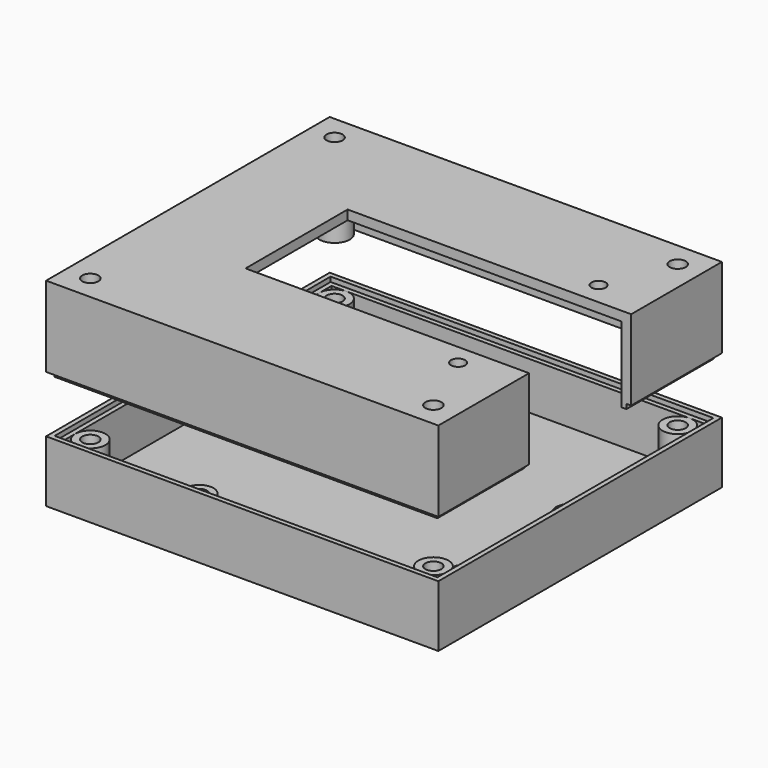
from build123d import *

# Parameters (mm, degrees)
SKETCH_W        = 83
SKETCH_H        = 75
PAD_DEPTH       = 2
SKETCH001_R     = 3
SKETCH001_R_2   = 1.6
PAD001_DEPTH    = 2
SKETCH002_W     = 83
SKETCH002_H     = 75
SKETCH002_W_2   = 79
SKETCH002_H_2   = 71
PAD002_DEPTH    = 10
SKETCH003_W     = 13.5
SKETCH003_H     = 7
POCKET_DEPTH    = 2
SKETCH004_R     = 1.6
POCKET001_DEPTH = 2
PAD003_DEPTH    = 1
SKETCH006_R     = 3.2
PAD004_DEPTH    = 10
SKETCH007_R     = 1.7
HOLE_DEPTH      = 25
SKETCH008_W     = 83
SKETCH008_H     = 75
PAD005_DEPTH    = 2
SKETCH009_W     = 83
SKETCH009_H     = 75
SKETCH009_W_2   = 79
SKETCH009_H_2   = 71
PAD006_DEPTH    = 15
SKETCH010_W     = 13.5
SKETCH010_H     = 5
POCKET002_DEPTH = 2
SKETCH011_R     = 3.2
PAD007_DEPTH    = 16
SKETCH012_R     = 1.7
HOLE001_DEPTH   = 18.001
PAD008_DEPTH    = 1
SKETCH014_R     = 1.5
SKETCH014_W     = 60
SKETCH014_H     = 27
POCKET003_DEPTH = 18.001


with BuildPart() as fond:
    # Sketch → Pad (new body)
    with BuildSketch(Plane.XY):
        Rectangle(SKETCH_W, SKETCH_H)
    extrude(amount=PAD_DEPTH)

    # Sketch001 (on Face6 of Pad) → Pad001 (join)
    with BuildSketch(Plane.XY.offset(2)):
        with Locations((-19.8, -24.1)):
            Circle(SKETCH001_R)
        with Locations((-19.8, -24.1)):
            Circle(SKETCH001_R_2, mode=Mode.SUBTRACT)
        with Locations((32.3, -19)):
            Circle(SKETCH001_R)
        with Locations((32.3, -19)):
            Circle(SKETCH001_R_2, mode=Mode.SUBTRACT)
        with Locations((32.3, 8.9)):
            Circle(SKETCH001_R)
        with Locations((32.3, 8.9)):
            Circle(SKETCH001_R_2, mode=Mode.SUBTRACT)
        with Locations((-18.5, 24.1)):
            Circle(SKETCH001_R)
        with Locations((-18.5, 24.1)):
            Circle(SKETCH001_R_2, mode=Mode.SUBTRACT)
    extrude(amount=PAD001_DEPTH)

    # Sketch002 (on Face5 of Pad001) → Pad002 (join)
    with BuildSketch(Plane.XY.offset(2)):
        Rectangle(SKETCH002_W, SKETCH002_H)
        Rectangle(SKETCH002_W_2, SKETCH002_H_2, mode=Mode.SUBTRACT)
    extrude(amount=PAD002_DEPTH)

    # Sketch003 (on Face7 of Pad002) → Pocket (cut)
    with BuildSketch(Plane(origin=(-41.5, 0, 0), x_dir=(0, -1, 0), z_dir=(-1, 0, 0))):
        with Locations((-11.46, 8.5)):
            Rectangle(SKETCH003_W, SKETCH003_H)
    extrude(amount=-POCKET_DEPTH, mode=Mode.SUBTRACT)

    # Sketch004 (on Face18 of Pocket) → Pocket001 (cut)
    with BuildSketch(Plane.XY.offset(2)):
        with Locations((32.3, 8.9)):
            Circle(SKETCH004_R)
        with Locations((32.3, -19)):
            Circle(SKETCH004_R)
        with Locations((-19.8, -24.1)):
            Circle(SKETCH004_R)
        with Locations((-18.5, 24.1)):
            Circle(SKETCH004_R)
    extrude(amount=-POCKET001_DEPTH, mode=Mode.SUBTRACT)

    # Sketch005 (on Face13 of Pocket001) → Pad003 (join)
    with BuildSketch(Plane.XY.offset(12)):
        Polygon((41.5, 37.5), (-41.5, 37.5), (-41.5, 18.21), (-40.5, 18.21), (-40.5, 36.5), (40.5, 36.5), (40.5, -36.5), (-40.5, -36.5), (-40.5, 4.71), (-41.5, 4.71), (-41.5, -37.5), (41.5, -37.5), align=None)
    extrude(amount=PAD003_DEPTH)

    # Sketch006 (on Face40 of Pad003) → Pad004 (join)
    with BuildSketch(Plane.XY.offset(2)):
        with Locations((-36.3, 32.3)):
            Circle(SKETCH006_R)
        with Locations((36.3, 32.3)):
            Circle(SKETCH006_R)
        with Locations((36.3, -32.3)):
            Circle(SKETCH006_R)
        with Locations((-36.3, -32.3)):
            Circle(SKETCH006_R)
    extrude(amount=PAD004_DEPTH)

    # Sketch007 (on Face68 of Pad004) → Hole (cut)
    with BuildSketch(Plane.XY.offset(12)):
        with Locations((-36.3, 32.3)):
            Circle(SKETCH007_R)
        with Locations((36.3, 32.3)):
            Circle(SKETCH007_R)
        with Locations((36.3, -32.3)):
            Circle(SKETCH007_R)
        with Locations((-36.3, -32.3)):
            Circle(SKETCH007_R)
    extrude(amount=-HOLE_DEPTH, mode=Mode.SUBTRACT)


with BuildPart() as dessus:
    # Sketch008 → Pad005 (new body)
    with BuildSketch(Plane.XY):
        Rectangle(SKETCH008_W, SKETCH008_H)
    extrude(amount=PAD005_DEPTH)

    # Sketch009 (on Face5 of Pad005) → Pad006 (join)
    with BuildSketch(Plane(origin=(0, 0, 0), x_dir=(1, 0, 0), z_dir=(0, 0, -1))):
        Rectangle(SKETCH009_W, SKETCH009_H)
        Rectangle(SKETCH009_W_2, SKETCH009_H_2, mode=Mode.SUBTRACT)
    extrude(amount=PAD006_DEPTH)

    # Sketch010 (on Face7 of Pad006) → Pocket002 (cut)
    with BuildSketch(Plane(origin=(-41.5, 0, 0), x_dir=(0, -1, 0), z_dir=(-1, 0, 0))):
        with Locations((-11.46, -12.5)):
            Rectangle(SKETCH010_W, SKETCH010_H)
    extrude(amount=-POCKET002_DEPTH, mode=Mode.SUBTRACT)

    # Sketch011 (on Face15 of Pad006) → Pad007 (join)
    with BuildSketch(Plane(origin=(0, 0, 0), x_dir=(1, 0, 0), z_dir=(0, 0, -1))):
        with Locations((36.3, 32.3)):
            Circle(SKETCH011_R)
        with Locations((36.3, -32.3)):
            Circle(SKETCH011_R)
        with Locations((-36.3, -32.3)):
            Circle(SKETCH011_R)
        with Locations((-36.3, 32.3)):
            Circle(SKETCH011_R)
    extrude(amount=PAD007_DEPTH)

    # Sketch012 (on Face35 of Pad007) → Hole001 (cut, through all)
    with BuildSketch(Plane(origin=(0, 0, -16), x_dir=(1, 0, 0), z_dir=(0, 0, -1))):
        with Locations((-36.3, 32.3)):
            Circle(SKETCH012_R)
        with Locations((36.3, 32.3)):
            Circle(SKETCH012_R)
        with Locations((36.3, -32.3)):
            Circle(SKETCH012_R)
        with Locations((-36.3, -32.3)):
            Circle(SKETCH012_R)
    extrude(amount=-HOLE001_DEPTH, mode=Mode.SUBTRACT)

    # Sketch013 (on Face9 of Hole001) → Pad008 (join)
    with BuildSketch(Plane(origin=(0, 0, -15), x_dir=(1, 0, 0), z_dir=(0, 0, -1))):
        Polygon((-39.5, -4.71), (-40.5, -4.71), (-40.5, 36.5), (40.5, 36.5), (40.5, -36.5), (-40.5, -36.5), (-40.5, -18.21), (-39.5, -18.21), (-39.5, -35.5), (39.5, -35.5), (39.5, 35.5), (-39.5, 35.5), align=None)
    extrude(amount=PAD008_DEPTH)

    # Sketch014 (on Face5 of Pad008) → Pocket003 (cut, through all)
    with BuildSketch(Plane.XY.offset(2)):
        with Locations((30.76, 18.3)):
            Circle(SKETCH014_R)
        with Locations((30, -17.9)):
            Circle(SKETCH014_R)
        with Locations((11.5, 0)):
            Rectangle(SKETCH014_W, SKETCH014_H)
    extrude(amount=-POCKET003_DEPTH, mode=Mode.SUBTRACT)


with BuildPart() as dessus_1:
    # Body001 placement: moved
    add(dessus.part.moved(Location((0, 0, 40))))


solid = Compound([fond.part, dessus_1.part])
